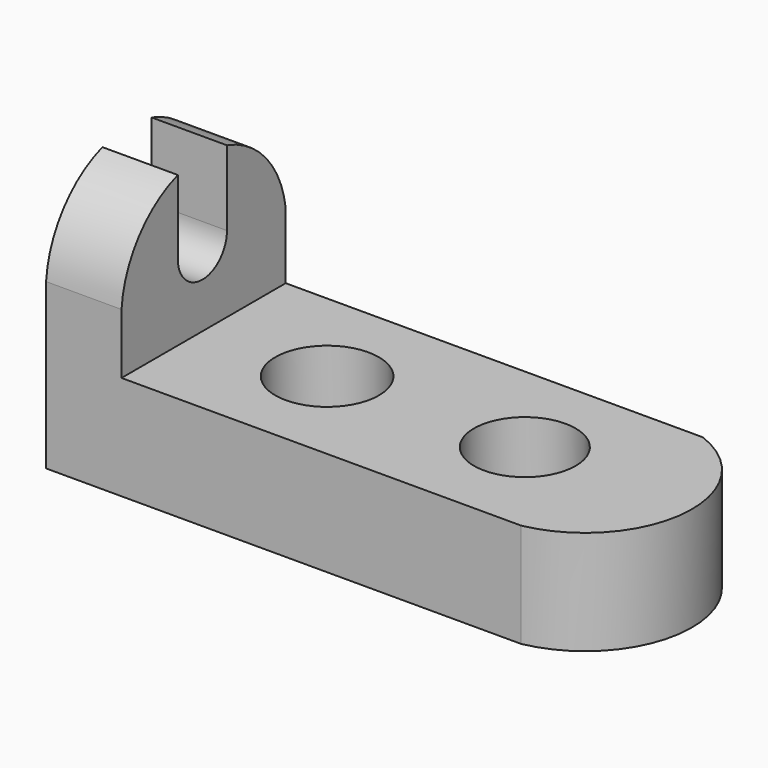
from build123d import *

# Parameters (mm, degrees)
F1_DEPTH  = 25.4
F2_R      = 6.2861798015
F2_R_2    = 6.4106702401
F3_DEPTH  = 12.8915009478
F5_DEPTH  = 12.8915009478
F7_DEPTH  = 69.5320936104
F10_DEPTH = 9.335500879


with BuildPart() as f1:
    # F0 (on Front) → F1 (new body)
    with BuildSketch(Plane.XZ):
        Polygon((0, 31.9150984287), (0, 0), (69.6087032557, 0), (69.6087032557, 12.8905009478), (9.334500879, 12.8905009478), (9.334500879, 31.9150984287), align=None)
    extrude(amount=F1_DEPTH)

    # F2 (on face) → F3 (cut, through all)
    with BuildSketch(Plane.XY.offset(12.8905009478)):
        with Locations((48.8061010838, -12.3570999131)):
            Circle(F2_R)
        with Locations((24.6252994984, -12.7127002925)):
            Circle(F2_R_2)
    extrude(amount=-F3_DEPTH, mode=Mode.SUBTRACT)

    # F4 (on face) → F5 (cut, through all)
    with BuildSketch(Plane.XY.offset(12.8905009478)):
        with BuildLine():
            ThreePointArc((60.931898555, 0), (69.4846296944, -13.5080407898), (58.7982981412, -25.4))
            Line((58.7982981412, -25.4), (69.6087032557, -25.4))
            Line((69.6087032557, -25.4), (69.6087032557, 0))
            Line((69.6087032557, 0), (60.931898555, 0))
        make_face()
    extrude(amount=-F5_DEPTH, mode=Mode.SUBTRACT)

    # F6 (on face) → F7 (cut, through all)
    with BuildSketch(Plane(origin=(0, 0, 0), x_dir=(0, -1, 0), z_dir=(-1, 0, 0))):
        with BuildLine():
            ThreePointArc((0, 21.0692994297), (3.4400048541, 28.1838195258), (10.4061793669, 31.9150984287))
            Line((10.4061793669, 31.9150984287), (0, 31.9150984287))
            Line((0, 31.9150984287), (0, 21.0692994297))
        make_face()
        with BuildLine():
            ThreePointArc((14.9166792368, 31.9150984287), (22.126877753, 27.9222549677), (25.4, 20.3581005335))
            Line((25.4, 20.3581005335), (25.4, 31.9150984287))
            Line((25.4, 31.9150984287), (14.9166792368, 31.9150984287))
        make_face()
    extrude(amount=-F7_DEPTH, mode=Mode.SUBTRACT)

    # F9 (on face) → F10 (cut, through all)
    with BuildSketch(Plane.YZ.offset(9.334500879)):
        with BuildLine():
            ThreePointArc((-16.6914294769, 22.3139002919), (-12.8905000165, 26.1148297523), (-9.0895705561, 22.3139002919))
            Line((-9.0895705561, 22.3139002919), (-9.0895705561, 31.6063540242))
            ThreePointArc((-9.0895705561, 31.6063540242), (-9.7437881877, 31.7781538537), (-10.4061793669, 31.9150984287))
            Line((-10.4061793669, 31.9150984287), (-14.9166792368, 31.9150984287))
            ThreePointArc((-14.9166792368, 31.9150984287), (-15.8121520335, 31.7211826291), (-16.6914294769, 31.4636053697))
            Line((-16.6914294769, 31.4636053697), (-16.6914294769, 22.3139002919))
        make_face()
        with BuildLine():
            ThreePointArc((-16.6914294769, 22.3139002919), (-12.8905000165, 18.5129708315), (-9.0895705561, 22.3139002919))
            ThreePointArc((-9.0895705561, 22.3139002919), (-12.8905000165, 26.1148297523), (-16.6914294769, 22.3139002919))
        make_face()
    extrude(amount=-F10_DEPTH, mode=Mode.SUBTRACT)


solid = f1.part
